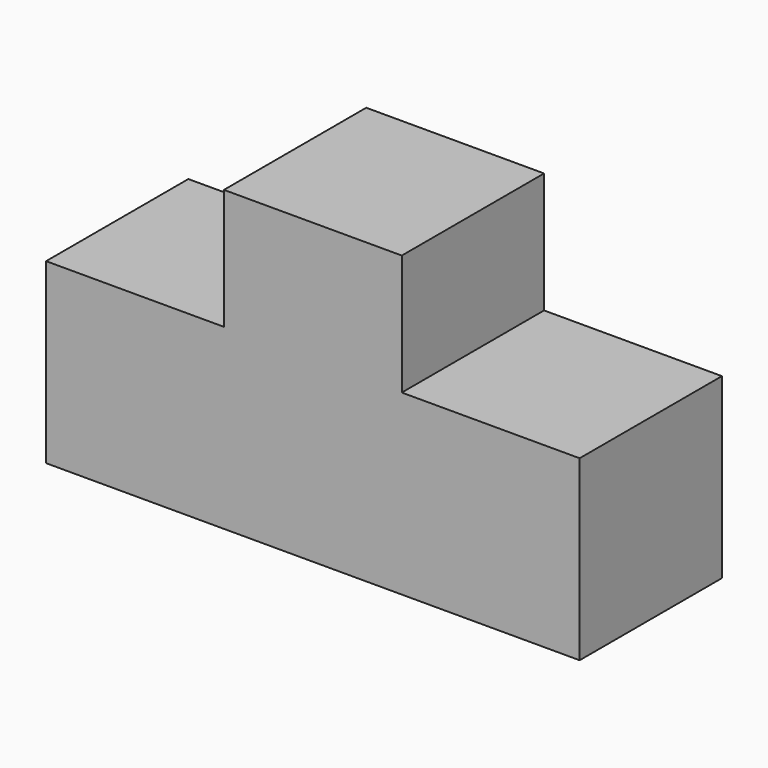
from build123d import *

# Parameters (mm, degrees)
F0_W     = 25.4
F0_H     = 25.4
F0_H_2   = 17.224068
F1_DEPTH = 25.4


with BuildPart() as f1:
    # F0 (on Front) → F1 (new body)
    with BuildSketch(Plane.XZ):
        with Locations((-12.7, 12.7)):
            Rectangle(F0_W, F0_H)
        with Locations((12.7, 12.7)):
            Rectangle(F0_W, F0_H)
        with Locations((12.7, 34.012034)):
            Rectangle(F0_W, F0_H_2)
        with Locations((38.1, 12.7)):
            Rectangle(F0_W, F0_H)
    extrude(amount=F1_DEPTH)


solid = f1.part
